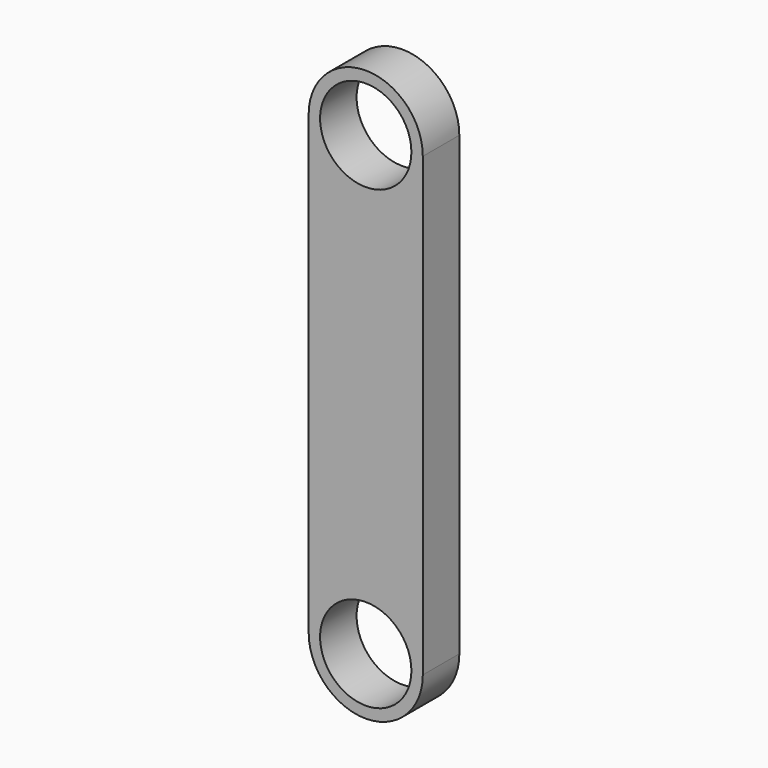
from build123d import *

# Parameters (mm, degrees)
F0_R     = 5.08
F1_DEPTH = 5.08


with BuildPart() as f1:
    # F0 (on Front) → F1 (new body)
    with BuildSketch(Plane.XZ):
        with BuildLine():
            Line((6.35, -31.642231), (6.35, 19.157769))
            ThreePointArc((6.35, 19.157769), (0, 12.807769), (-6.35, 19.157769))
            Line((-6.35, 19.157769), (-6.35, -31.642231))
            ThreePointArc((-6.35, -31.642231), (0, -25.292231), (6.35, -31.642231))
        make_face()
        with BuildLine():
            ThreePointArc((-6.35, 19.157769), (0, 12.807769), (6.35, 19.157769))
            ThreePointArc((6.35, 19.157769), (0, 25.507769), (-6.35, 19.157769))
        make_face()
        with Locations((0, 19.157769)):
            Circle(F0_R, mode=Mode.SUBTRACT)
        with BuildLine():
            ThreePointArc((-6.35, -31.642231), (0, -37.992231), (6.35, -31.642231))
            ThreePointArc((6.35, -31.642231), (0, -25.292231), (-6.35, -31.642231))
        make_face()
        with Locations((0, -31.642231)):
            Circle(F0_R, mode=Mode.SUBTRACT)
    extrude(amount=F1_DEPTH)


solid = f1.part
